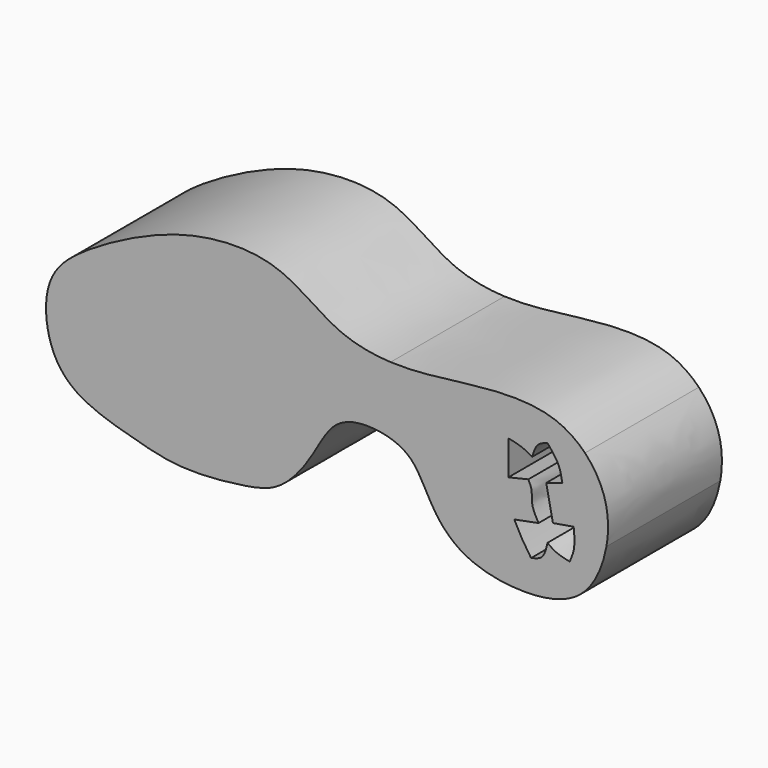
from build123d import *

# Parameters (mm, degrees)
F1_DEPTH = 25.4
F2_DEPTH = 25.4


with BuildPart() as f1:
    # F0 (on Front) → F1 (new body)
    with BuildSketch(Plane.XZ):
        with BuildLine():
            add(Edge.make_bspline(
                [(-21.1319793016, -24.2659058422), (-24.3570358762, -24.7777855387), (-32.4706943336, -25.5758135008), (-40.9489534266, -23.3495393333), (-52.7622456005, -19.9686759054), (-57.0062077936, -11.8062228805), (-56.7664948087, -2.1847660978), (-49.596358892, 3.8597955533), (-38.0318664258, 10.0360858029), (-26.8067426618, 13.2588182995), (-14.2837155857, 12.7668128887), (-5.5136649016, 5.0242601561), (1.6349428916, 3.7444633988), (4.8108015762, 3.6020368793)],
                knots=[0, 0, 0, 0, 0.0422629249, 0.0810008271, 0.1243072224, 0.1615307135, 0.1990169046, 0.2368101691, 0.2829193813, 0.3267313241, 0.3704405115, 0.4144458893, 0.4497350125, 0.4497350125, 0.4497350125, 0.4497350125], degree=3))
            add(Edge.make_bspline(
                [(9.6674837804, -12.0007963851), (9.2642394359, -11.3924981477), (7.4703470646, -9.1092335188), (2.2354055131, -7.3488645606), (-5.4862582953, -8.1355350058), (-9.0763541657, -16.1318268601), (-14.6339584292, -22.9126769642), (-18.6568995605, -23.8730621703), (-21.1319793016, -24.2659058422)],
                knots=[0.8170978874, 0.8170978874, 0.8170978874, 0.8170978874, 0.8277735352, 0.8605864368, 0.8939601806, 0.9306380753, 0.9675651863, 1, 1, 1, 1], degree=3))
            add(Edge.make_bspline(
                [(10.8868069947, -5.8429688215), (10.4803659233, -7.8955780094), (10.0739248519, -9.9481871972), (9.6674837804, -12.0007963851)],
                knots=[0, 0, 0, 0, 6.2773871478, 6.2773871478, 6.2773871478, 6.2773871478], degree=3))
            add(Edge.make_bspline(
                [(-28.3964090049, 3.0346869025), (-15.3020036717, 0.0754683279), (-2.2075983385, -2.8837502468), (10.8868069947, -5.8429688215)],
                knots=[0, 0, 0, 0, 40.2738603864, 40.2738603864, 40.2738603864, 40.2738603864], degree=3))
            add(Edge.make_bspline(
                [(-24.9266810715, -12.0007963851), (-26.0832570493, -6.9889686226), (-27.2398330271, -1.97714086), (-28.3964090049, 3.0346869025)],
                knots=[0, 0, 0, 0, 15.43064385, 15.43064385, 15.43064385, 15.43064385], degree=3))
            add(Edge.make_bspline(
                [(-53.0460588634, -10.1503068581), (-43.6729329328, -10.7671367005), (-34.2998070021, -11.3839665428), (-24.9266810715, -12.0007963851)],
                knots=[0, 0, 0, 0, 28.1802008313, 28.1802008313, 28.1802008313, 28.1802008313], degree=3))
            add(Edge.make_bspline(
                [(-53.0460588634, -10.1503068581), (-53.0460588634, -9.6892326449), (-53.0460588634, -9.2281584317), (-53.0460588634, -8.7670842186)],
                knots=[0, 0, 0, 0, 1.3832226396, 1.3832226396, 1.3832226396, 1.3832226396], degree=3))
            add(Edge.make_bspline(
                [(-53.0460588634, -8.7670842186), (-44.5210884015, -9.3438057229), (-35.9961179396, -9.9205272272), (-27.4711474776, -10.4972487316)],
                knots=[0, 0, 0, 0, 25.6333681289, 25.6333681289, 25.6333681289, 25.6333681289], degree=3))
            add(Edge.make_bspline(
                [(-27.4711474776, -10.4972487316), (-28.6855523785, -5.0998955655), (-29.8999572794, 0.2974576006), (-31.1143621802, 5.6948107667)],
                knots=[0, 0, 0, 0, 16.5968612745, 16.5968612745, 16.5968612745, 16.5968612745], degree=3))
            add(Edge.make_bspline(
                [(-31.1143621802, 5.6948107667), (-16.2555451194, 2.1861237474), (-1.3967280587, -1.322563272), (13.4620890021, -4.8312502913)],
                knots=[0, 0, 0, 0, 45.8023794296, 45.8023794296, 45.8023794296, 45.8023794296], degree=3))
            add(Edge.make_bspline(
                [(13.4620890021, -4.8312502913), (12.6036616663, -7.92181758), (11.7452343305, -11.0123848687), (10.8868069947, -14.1029521574)],
                knots=[0, 0, 0, 0, 9.6227092293, 9.6227092293, 9.6227092293, 9.6227092293], degree=3))
            add(Edge.make_bspline(
                [(21.9072404805, -23.8330229858), (20.4291064105, -23.4344663519), (16.0970680715, -21.7528409011), (12.9126333784, -17.9807425734), (11.2851478396, -14.8480385819), (10.8868069947, -14.1029521574)],
                knots=[0.7402515966, 0.7402515966, 0.7402515966, 0.7402515966, 0.7573729221, 0.7938080917, 0.8055602001, 0.8055602001, 0.8055602001, 0.8055602001], degree=3))
            add(Edge.make_bspline(
                [(21.9072404805, -23.8330229858), (20.4924234742, -20.5493035752), (19.0795214781, -17.2584819323), (17.6647044718, -13.9747625217)],
                knots=[0, 0, 0, 0, 10.7324000654, 10.7324000654, 10.7324000654, 10.7324000654], degree=3))
            add(Edge.make_bspline(
                [(17.6647044718, -13.9747625217), (18.9077388495, -11.2815212148), (20.1507732272, -8.5882799079), (21.3938076049, -5.895038601)],
                knots=[0, 0, 0, 0, 8.8987723205, 8.8987723205, 8.8987723205, 8.8987723205], degree=3))
            add(Edge.make_bspline(
                [(21.3938076049, -5.895038601), (15.8679470904, -2.6890279748), (10.3366620907, 0.3960262531), (4.8108015762, 3.6020368793)],
                knots=[0, 0, 0, 0, 19.1099589646, 19.1099589646, 19.1099589646, 19.1099589646], degree=3))
        make_face()
        with BuildLine():
            add(Edge.make_bspline(
                [(4.8108015762, 3.6020368793), (5.5402716391, 3.5693226145), (10.3213645362, 3.5025781258), (19.2069255067, 4.9316257915), (32.6506598726, 5.8406302067), (38.1089513561, 2.0494417269), (39.4985303285, 0.6140241302)],
                knots=[0.4497350125, 0.4497350125, 0.4497350125, 0.4497350125, 0.4578406499, 0.5028823113, 0.5521438618, 0.5748187455, 0.5748187455, 0.5748187455, 0.5748187455], degree=3))
            add(Edge.make_bspline(
                [(21.3938076049, -5.895038601), (15.8679470904, -2.6890279748), (10.3366620907, 0.3960262531), (4.8108015762, 3.6020368793)],
                knots=[0, 0, 0, 0, 19.1099589646, 19.1099589646, 19.1099589646, 19.1099589646], degree=3))
            add(Edge.make_bspline(
                [(17.6647044718, -13.9747625217), (18.9077388495, -11.2815212148), (20.1507732272, -8.5882799079), (21.3938076049, -5.895038601)],
                knots=[0, 0, 0, 0, 8.8987723205, 8.8987723205, 8.8987723205, 8.8987723205], degree=3))
            add(Edge.make_bspline(
                [(21.9072404805, -23.8330229858), (20.4924234742, -20.5493035752), (19.0795214781, -17.2584819323), (17.6647044718, -13.9747625217)],
                knots=[0, 0, 0, 0, 10.7324000654, 10.7324000654, 10.7324000654, 10.7324000654], degree=3))
            add(Edge.make_bspline(
                [(43.3249436319, -12.8394505009), (42.7319681607, -16.2017480064), (39.7925814661, -23.155403882), (30.4469371076, -25.1687969732), (24.1430179138, -24.4358667644), (21.9072404805, -23.8330229858)],
                knots=[0.6332695043, 0.6332695043, 0.6332695043, 0.6332695043, 0.6735927279, 0.7143544376, 0.7402515966, 0.7402515966, 0.7402515966, 0.7402515966], degree=3))
            add(Edge.make_bspline(
                [(39.4985303285, 0.6140241302), (40.6835603149, -0.6100969373), (43.5381276946, -4.8387743611), (43.9001318877, -9.5780103037), (43.3249436319, -12.8394505009)],
                knots=[0.5748187455, 0.5748187455, 0.5748187455, 0.5748187455, 0.5941558381, 0.6332695043, 0.6332695043, 0.6332695043, 0.6332695043], degree=3))
        make_face()
        with BuildLine():
            add(Edge.make_bspline(
                [(29.8773124814, -19.02865991), (30.6132948701, -18.858887015), (32.1780260069, -18.4979423251), (32.5887387391, -16.6565554554), (32.8062698245, -15.6812779605)],
                knots=[0, 0, 0, 0, 0.4703570929, 1, 1, 1, 1], degree=3))
            add(Edge.make_bspline(
                [(26.8845334649, -13.9401629567), (27.3329629385, -14.8248683362), (28.227634179, -16.5899629743), (29.3283168669, -18.2170871803), (29.8773124814, -19.02865991)],
                knots=[0, 0, 0, 0, 0.5012226316, 1, 1, 1, 1], degree=3))
            add(Edge.make_bspline(
                [(31.2071647495, -13.1017267704), (29.7662876546, -13.3812054992), (28.3254105598, -13.6606842279), (26.8845334649, -13.9401629567)],
                knots=[0, 0, 0, 0, 4.4031938932, 4.4031938932, 4.4031938932, 4.4031938932], degree=3))
            add(Edge.make_bspline(
                [(29.3891523033, -6.8246647716), (29.6312408565, -7.2969894135), (30.1555270731, -8.3198932074), (29.8208710369, -10.6165544248), (30.72565527, -12.238537367), (31.2071647495, -13.1017267704)],
                knots=[0, 0, 0, 0, 0.2863905933, 0.6202302367, 1, 1, 1, 1], degree=3))
            add(Edge.make_bspline(
                [(25.8325599134, -7.6615102589), (27.01809071, -7.3825617631), (28.2036215067, -7.1036132673), (29.3891523033, -6.8246647716)],
                knots=[0, 0, 0, 0, 3.653718626, 3.653718626, 3.653718626, 3.653718626], degree=3))
            add(Edge.make_bspline(
                [(25.8325599134, -1.5246442053), (25.8325599134, -3.5702662232), (25.8325599134, -5.6158882411), (25.8325599134, -7.6615102589)],
                knots=[0, 0, 0, 0, 6.1368660536, 6.1368660536, 6.1368660536, 6.1368660536], degree=3))
            add(Edge.make_bspline(
                [(30.0865229219, -3.0588605441), (29.42752174, -2.6982102219), (28.1015622789, -1.972554912), (26.5919138408, -1.6745438967), (25.8325599134, -1.5246442053)],
                knots=[0, 0, 0, 0, 0.4969994945, 1, 1, 1, 1], degree=3))
            add(Edge.make_bspline(
                [(32.8062698245, 0), (32.1572042703, -0.2142041), (30.7942122706, -0.6640176399), (30.3297862732, -2.2356497502), (30.0865229219, -3.0588605441)],
                knots=[0, 0, 0, 0, 0.4762064299, 1, 1, 1, 1], degree=3))
            add(Edge.make_bspline(
                [(35.4562811553, -5.4299226031), (35.3071278836, -4.5344958964), (34.9919023066, -2.642070763), (33.5604244511, -0.9116491021), (32.8062698245, 0)],
                knots=[0, 0, 0, 0, 0.4731636094, 1, 1, 1, 1], degree=3))
            add(Edge.make_bspline(
                [(32.5887387391, -6.3365050592), (33.5445862112, -6.0343109071), (34.5004336832, -5.7321167551), (35.4562811553, -5.4299226031)],
                knots=[0, 0, 0, 0, 3.0074393192, 3.0074393192, 3.0074393192, 3.0074393192], degree=3))
            add(Edge.make_bspline(
                [(33.7825901806, -12.264159508), (33.3846397001, -10.2882746918), (32.9866892196, -8.3123898755), (32.5887387391, -6.3365050592)],
                knots=[0, 0, 0, 0, 6.04668244, 6.04668244, 6.04668244, 6.04668244], degree=3))
            add(Edge.make_bspline(
                [(37.478659302, -11.6365253925), (36.2466362615, -11.8457367644), (35.0146132211, -12.0549481362), (33.7825901806, -12.264159508)],
                knots=[0, 0, 0, 0, 3.7489800657, 3.7489800657, 3.7489800657, 3.7489800657], degree=3))
            add(Edge.make_bspline(
                [(36.7812849581, -17.3549689353), (37.1008468874, -16.604512811), (37.7908123304, -14.9842046807), (37.5876992525, -12.8059222928), (37.478659302, -11.6365253925)],
                knots=[0, 0, 0, 0, 0.463156427, 1, 1, 1, 1], degree=3))
            add(Edge.make_bspline(
                [(32.8062698245, -15.6812779605), (33.2770934504, -16.0357254501), (34.3043032576, -16.8090340043), (35.9110135004, -17.1631582375), (36.7812849581, -17.3549689353)],
                knots=[0, 0, 0, 0, 0.4583519576, 1, 1, 1, 1], degree=3))
        make_face(mode=Mode.SUBTRACT)
        with BuildLine():
            add(Edge.make_bspline(
                [(10.8868069947, -5.8429688215), (10.4803659233, -7.8955780094), (10.0739248519, -9.9481871972), (9.6674837804, -12.0007963851)],
                knots=[0, 0, 0, 0, 6.2773871478, 6.2773871478, 6.2773871478, 6.2773871478], degree=3))
            add(Edge.make_bspline(
                [(10.8868069947, -14.1029521574), (10.4957340064, -13.3714600738), (10.1032893871, -12.658213621), (9.6674837804, -12.0007963851)],
                knots=[0.8055602001, 0.8055602001, 0.8055602001, 0.8055602001, 0.8170978874, 0.8170978874, 0.8170978874, 0.8170978874], degree=3))
            add(Edge.make_bspline(
                [(13.4620890021, -4.8312502913), (12.6036616663, -7.92181758), (11.7452343305, -11.0123848687), (10.8868069947, -14.1029521574)],
                knots=[0, 0, 0, 0, 9.6227092293, 9.6227092293, 9.6227092293, 9.6227092293], degree=3))
            add(Edge.make_bspline(
                [(-31.1143621802, 5.6948107667), (-16.2555451194, 2.1861237474), (-1.3967280587, -1.322563272), (13.4620890021, -4.8312502913)],
                knots=[0, 0, 0, 0, 45.8023794296, 45.8023794296, 45.8023794296, 45.8023794296], degree=3))
            add(Edge.make_bspline(
                [(-27.4711474776, -10.4972487316), (-28.6855523785, -5.0998955655), (-29.8999572794, 0.2974576006), (-31.1143621802, 5.6948107667)],
                knots=[0, 0, 0, 0, 16.5968612745, 16.5968612745, 16.5968612745, 16.5968612745], degree=3))
            add(Edge.make_bspline(
                [(-53.0460588634, -8.7670842186), (-44.5210884015, -9.3438057229), (-35.9961179396, -9.9205272272), (-27.4711474776, -10.4972487316)],
                knots=[0, 0, 0, 0, 25.6333681289, 25.6333681289, 25.6333681289, 25.6333681289], degree=3))
            add(Edge.make_bspline(
                [(-53.0460588634, -10.1503068581), (-53.0460588634, -9.6892326449), (-53.0460588634, -9.2281584317), (-53.0460588634, -8.7670842186)],
                knots=[0, 0, 0, 0, 1.3832226396, 1.3832226396, 1.3832226396, 1.3832226396], degree=3))
            add(Edge.make_bspline(
                [(-53.0460588634, -10.1503068581), (-43.6729329328, -10.7671367005), (-34.2998070021, -11.3839665428), (-24.9266810715, -12.0007963851)],
                knots=[0, 0, 0, 0, 28.1802008313, 28.1802008313, 28.1802008313, 28.1802008313], degree=3))
            add(Edge.make_bspline(
                [(-24.9266810715, -12.0007963851), (-26.0832570493, -6.9889686226), (-27.2398330271, -1.97714086), (-28.3964090049, 3.0346869025)],
                knots=[0, 0, 0, 0, 15.43064385, 15.43064385, 15.43064385, 15.43064385], degree=3))
            add(Edge.make_bspline(
                [(-28.3964090049, 3.0346869025), (-15.3020036717, 0.0754683279), (-2.2075983385, -2.8837502468), (10.8868069947, -5.8429688215)],
                knots=[0, 0, 0, 0, 40.2738603864, 40.2738603864, 40.2738603864, 40.2738603864], degree=3))
        make_face()
    extrude(amount=F1_DEPTH)

    # F0 (on Front) → F2 (join)
    with BuildSketch(Plane.XZ):
        with BuildLine():
            add(Edge.make_bspline(
                [(-21.1319793016, -24.2659058422), (-24.3570358762, -24.7777855387), (-32.4706943336, -25.5758135008), (-40.9489534266, -23.3495393333), (-52.7622456005, -19.9686759054), (-57.0062077936, -11.8062228805), (-56.7664948087, -2.1847660978), (-49.596358892, 3.8597955533), (-38.0318664258, 10.0360858029), (-26.8067426618, 13.2588182995), (-14.2837155857, 12.7668128887), (-5.5136649016, 5.0242601561), (1.6349428916, 3.7444633988), (4.8108015762, 3.6020368793)],
                knots=[0, 0, 0, 0, 0.0422629249, 0.0810008271, 0.1243072224, 0.1615307135, 0.1990169046, 0.2368101691, 0.2829193813, 0.3267313241, 0.3704405115, 0.4144458893, 0.4497350125, 0.4497350125, 0.4497350125, 0.4497350125], degree=3))
            add(Edge.make_bspline(
                [(9.6674837804, -12.0007963851), (9.2642394359, -11.3924981477), (7.4703470646, -9.1092335188), (2.2354055131, -7.3488645606), (-5.4862582953, -8.1355350058), (-9.0763541657, -16.1318268601), (-14.6339584292, -22.9126769642), (-18.6568995605, -23.8730621703), (-21.1319793016, -24.2659058422)],
                knots=[0.8170978874, 0.8170978874, 0.8170978874, 0.8170978874, 0.8277735352, 0.8605864368, 0.8939601806, 0.9306380753, 0.9675651863, 1, 1, 1, 1], degree=3))
            add(Edge.make_bspline(
                [(10.8868069947, -5.8429688215), (10.4803659233, -7.8955780094), (10.0739248519, -9.9481871972), (9.6674837804, -12.0007963851)],
                knots=[0, 0, 0, 0, 6.2773871478, 6.2773871478, 6.2773871478, 6.2773871478], degree=3))
            add(Edge.make_bspline(
                [(-28.3964090049, 3.0346869025), (-15.3020036717, 0.0754683279), (-2.2075983385, -2.8837502468), (10.8868069947, -5.8429688215)],
                knots=[0, 0, 0, 0, 40.2738603864, 40.2738603864, 40.2738603864, 40.2738603864], degree=3))
            add(Edge.make_bspline(
                [(-24.9266810715, -12.0007963851), (-26.0832570493, -6.9889686226), (-27.2398330271, -1.97714086), (-28.3964090049, 3.0346869025)],
                knots=[0, 0, 0, 0, 15.43064385, 15.43064385, 15.43064385, 15.43064385], degree=3))
            add(Edge.make_bspline(
                [(-53.0460588634, -10.1503068581), (-43.6729329328, -10.7671367005), (-34.2998070021, -11.3839665428), (-24.9266810715, -12.0007963851)],
                knots=[0, 0, 0, 0, 28.1802008313, 28.1802008313, 28.1802008313, 28.1802008313], degree=3))
            add(Edge.make_bspline(
                [(-53.0460588634, -10.1503068581), (-53.0460588634, -9.6892326449), (-53.0460588634, -9.2281584317), (-53.0460588634, -8.7670842186)],
                knots=[0, 0, 0, 0, 1.3832226396, 1.3832226396, 1.3832226396, 1.3832226396], degree=3))
            add(Edge.make_bspline(
                [(-53.0460588634, -8.7670842186), (-44.5210884015, -9.3438057229), (-35.9961179396, -9.9205272272), (-27.4711474776, -10.4972487316)],
                knots=[0, 0, 0, 0, 25.6333681289, 25.6333681289, 25.6333681289, 25.6333681289], degree=3))
            add(Edge.make_bspline(
                [(-27.4711474776, -10.4972487316), (-28.6855523785, -5.0998955655), (-29.8999572794, 0.2974576006), (-31.1143621802, 5.6948107667)],
                knots=[0, 0, 0, 0, 16.5968612745, 16.5968612745, 16.5968612745, 16.5968612745], degree=3))
            add(Edge.make_bspline(
                [(-31.1143621802, 5.6948107667), (-16.2555451194, 2.1861237474), (-1.3967280587, -1.322563272), (13.4620890021, -4.8312502913)],
                knots=[0, 0, 0, 0, 45.8023794296, 45.8023794296, 45.8023794296, 45.8023794296], degree=3))
            add(Edge.make_bspline(
                [(13.4620890021, -4.8312502913), (12.6036616663, -7.92181758), (11.7452343305, -11.0123848687), (10.8868069947, -14.1029521574)],
                knots=[0, 0, 0, 0, 9.6227092293, 9.6227092293, 9.6227092293, 9.6227092293], degree=3))
            add(Edge.make_bspline(
                [(21.9072404805, -23.8330229858), (20.4291064105, -23.4344663519), (16.0970680715, -21.7528409011), (12.9126333784, -17.9807425734), (11.2851478396, -14.8480385819), (10.8868069947, -14.1029521574)],
                knots=[0.7402515966, 0.7402515966, 0.7402515966, 0.7402515966, 0.7573729221, 0.7938080917, 0.8055602001, 0.8055602001, 0.8055602001, 0.8055602001], degree=3))
            add(Edge.make_bspline(
                [(21.9072404805, -23.8330229858), (20.4924234742, -20.5493035752), (19.0795214781, -17.2584819323), (17.6647044718, -13.9747625217)],
                knots=[0, 0, 0, 0, 10.7324000654, 10.7324000654, 10.7324000654, 10.7324000654], degree=3))
            add(Edge.make_bspline(
                [(17.6647044718, -13.9747625217), (18.9077388495, -11.2815212148), (20.1507732272, -8.5882799079), (21.3938076049, -5.895038601)],
                knots=[0, 0, 0, 0, 8.8987723205, 8.8987723205, 8.8987723205, 8.8987723205], degree=3))
            add(Edge.make_bspline(
                [(21.3938076049, -5.895038601), (15.8679470904, -2.6890279748), (10.3366620907, 0.3960262531), (4.8108015762, 3.6020368793)],
                knots=[0, 0, 0, 0, 19.1099589646, 19.1099589646, 19.1099589646, 19.1099589646], degree=3))
        make_face()
        with BuildLine():
            add(Edge.make_bspline(
                [(4.8108015762, 3.6020368793), (5.5402716391, 3.5693226145), (10.3213645362, 3.5025781258), (19.2069255067, 4.9316257915), (32.6506598726, 5.8406302067), (38.1089513561, 2.0494417269), (39.4985303285, 0.6140241302)],
                knots=[0.4497350125, 0.4497350125, 0.4497350125, 0.4497350125, 0.4578406499, 0.5028823113, 0.5521438618, 0.5748187455, 0.5748187455, 0.5748187455, 0.5748187455], degree=3))
            add(Edge.make_bspline(
                [(21.3938076049, -5.895038601), (15.8679470904, -2.6890279748), (10.3366620907, 0.3960262531), (4.8108015762, 3.6020368793)],
                knots=[0, 0, 0, 0, 19.1099589646, 19.1099589646, 19.1099589646, 19.1099589646], degree=3))
            add(Edge.make_bspline(
                [(17.6647044718, -13.9747625217), (18.9077388495, -11.2815212148), (20.1507732272, -8.5882799079), (21.3938076049, -5.895038601)],
                knots=[0, 0, 0, 0, 8.8987723205, 8.8987723205, 8.8987723205, 8.8987723205], degree=3))
            add(Edge.make_bspline(
                [(21.9072404805, -23.8330229858), (20.4924234742, -20.5493035752), (19.0795214781, -17.2584819323), (17.6647044718, -13.9747625217)],
                knots=[0, 0, 0, 0, 10.7324000654, 10.7324000654, 10.7324000654, 10.7324000654], degree=3))
            add(Edge.make_bspline(
                [(43.3249436319, -12.8394505009), (42.7319681607, -16.2017480064), (39.7925814661, -23.155403882), (30.4469371076, -25.1687969732), (24.1430179138, -24.4358667644), (21.9072404805, -23.8330229858)],
                knots=[0.6332695043, 0.6332695043, 0.6332695043, 0.6332695043, 0.6735927279, 0.7143544376, 0.7402515966, 0.7402515966, 0.7402515966, 0.7402515966], degree=3))
            add(Edge.make_bspline(
                [(39.4985303285, 0.6140241302), (40.6835603149, -0.6100969373), (43.5381276946, -4.8387743611), (43.9001318877, -9.5780103037), (43.3249436319, -12.8394505009)],
                knots=[0.5748187455, 0.5748187455, 0.5748187455, 0.5748187455, 0.5941558381, 0.6332695043, 0.6332695043, 0.6332695043, 0.6332695043], degree=3))
        make_face()
        with BuildLine():
            add(Edge.make_bspline(
                [(29.8773124814, -19.02865991), (30.6132948701, -18.858887015), (32.1780260069, -18.4979423251), (32.5887387391, -16.6565554554), (32.8062698245, -15.6812779605)],
                knots=[0, 0, 0, 0, 0.4703570929, 1, 1, 1, 1], degree=3))
            add(Edge.make_bspline(
                [(26.8845334649, -13.9401629567), (27.3329629385, -14.8248683362), (28.227634179, -16.5899629743), (29.3283168669, -18.2170871803), (29.8773124814, -19.02865991)],
                knots=[0, 0, 0, 0, 0.5012226316, 1, 1, 1, 1], degree=3))
            add(Edge.make_bspline(
                [(31.2071647495, -13.1017267704), (29.7662876546, -13.3812054992), (28.3254105598, -13.6606842279), (26.8845334649, -13.9401629567)],
                knots=[0, 0, 0, 0, 4.4031938932, 4.4031938932, 4.4031938932, 4.4031938932], degree=3))
            add(Edge.make_bspline(
                [(29.3891523033, -6.8246647716), (29.6312408565, -7.2969894135), (30.1555270731, -8.3198932074), (29.8208710369, -10.6165544248), (30.72565527, -12.238537367), (31.2071647495, -13.1017267704)],
                knots=[0, 0, 0, 0, 0.2863905933, 0.6202302367, 1, 1, 1, 1], degree=3))
            add(Edge.make_bspline(
                [(25.8325599134, -7.6615102589), (27.01809071, -7.3825617631), (28.2036215067, -7.1036132673), (29.3891523033, -6.8246647716)],
                knots=[0, 0, 0, 0, 3.653718626, 3.653718626, 3.653718626, 3.653718626], degree=3))
            add(Edge.make_bspline(
                [(25.8325599134, -1.5246442053), (25.8325599134, -3.5702662232), (25.8325599134, -5.6158882411), (25.8325599134, -7.6615102589)],
                knots=[0, 0, 0, 0, 6.1368660536, 6.1368660536, 6.1368660536, 6.1368660536], degree=3))
            add(Edge.make_bspline(
                [(30.0865229219, -3.0588605441), (29.42752174, -2.6982102219), (28.1015622789, -1.972554912), (26.5919138408, -1.6745438967), (25.8325599134, -1.5246442053)],
                knots=[0, 0, 0, 0, 0.4969994945, 1, 1, 1, 1], degree=3))
            add(Edge.make_bspline(
                [(32.8062698245, 0), (32.1572042703, -0.2142041), (30.7942122706, -0.6640176399), (30.3297862732, -2.2356497502), (30.0865229219, -3.0588605441)],
                knots=[0, 0, 0, 0, 0.4762064299, 1, 1, 1, 1], degree=3))
            add(Edge.make_bspline(
                [(35.4562811553, -5.4299226031), (35.3071278836, -4.5344958964), (34.9919023066, -2.642070763), (33.5604244511, -0.9116491021), (32.8062698245, 0)],
                knots=[0, 0, 0, 0, 0.4731636094, 1, 1, 1, 1], degree=3))
            add(Edge.make_bspline(
                [(32.5887387391, -6.3365050592), (33.5445862112, -6.0343109071), (34.5004336832, -5.7321167551), (35.4562811553, -5.4299226031)],
                knots=[0, 0, 0, 0, 3.0074393192, 3.0074393192, 3.0074393192, 3.0074393192], degree=3))
            add(Edge.make_bspline(
                [(33.7825901806, -12.264159508), (33.3846397001, -10.2882746918), (32.9866892196, -8.3123898755), (32.5887387391, -6.3365050592)],
                knots=[0, 0, 0, 0, 6.04668244, 6.04668244, 6.04668244, 6.04668244], degree=3))
            add(Edge.make_bspline(
                [(37.478659302, -11.6365253925), (36.2466362615, -11.8457367644), (35.0146132211, -12.0549481362), (33.7825901806, -12.264159508)],
                knots=[0, 0, 0, 0, 3.7489800657, 3.7489800657, 3.7489800657, 3.7489800657], degree=3))
            add(Edge.make_bspline(
                [(36.7812849581, -17.3549689353), (37.1008468874, -16.604512811), (37.7908123304, -14.9842046807), (37.5876992525, -12.8059222928), (37.478659302, -11.6365253925)],
                knots=[0, 0, 0, 0, 0.463156427, 1, 1, 1, 1], degree=3))
            add(Edge.make_bspline(
                [(32.8062698245, -15.6812779605), (33.2770934504, -16.0357254501), (34.3043032576, -16.8090340043), (35.9110135004, -17.1631582375), (36.7812849581, -17.3549689353)],
                knots=[0, 0, 0, 0, 0.4583519576, 1, 1, 1, 1], degree=3))
        make_face(mode=Mode.SUBTRACT)
        with BuildLine():
            add(Edge.make_bspline(
                [(10.8868069947, -5.8429688215), (10.4803659233, -7.8955780094), (10.0739248519, -9.9481871972), (9.6674837804, -12.0007963851)],
                knots=[0, 0, 0, 0, 6.2773871478, 6.2773871478, 6.2773871478, 6.2773871478], degree=3))
            add(Edge.make_bspline(
                [(10.8868069947, -14.1029521574), (10.4957340064, -13.3714600738), (10.1032893871, -12.658213621), (9.6674837804, -12.0007963851)],
                knots=[0.8055602001, 0.8055602001, 0.8055602001, 0.8055602001, 0.8170978874, 0.8170978874, 0.8170978874, 0.8170978874], degree=3))
            add(Edge.make_bspline(
                [(13.4620890021, -4.8312502913), (12.6036616663, -7.92181758), (11.7452343305, -11.0123848687), (10.8868069947, -14.1029521574)],
                knots=[0, 0, 0, 0, 9.6227092293, 9.6227092293, 9.6227092293, 9.6227092293], degree=3))
            add(Edge.make_bspline(
                [(-31.1143621802, 5.6948107667), (-16.2555451194, 2.1861237474), (-1.3967280587, -1.322563272), (13.4620890021, -4.8312502913)],
                knots=[0, 0, 0, 0, 45.8023794296, 45.8023794296, 45.8023794296, 45.8023794296], degree=3))
            add(Edge.make_bspline(
                [(-27.4711474776, -10.4972487316), (-28.6855523785, -5.0998955655), (-29.8999572794, 0.2974576006), (-31.1143621802, 5.6948107667)],
                knots=[0, 0, 0, 0, 16.5968612745, 16.5968612745, 16.5968612745, 16.5968612745], degree=3))
            add(Edge.make_bspline(
                [(-53.0460588634, -8.7670842186), (-44.5210884015, -9.3438057229), (-35.9961179396, -9.9205272272), (-27.4711474776, -10.4972487316)],
                knots=[0, 0, 0, 0, 25.6333681289, 25.6333681289, 25.6333681289, 25.6333681289], degree=3))
            add(Edge.make_bspline(
                [(-53.0460588634, -10.1503068581), (-53.0460588634, -9.6892326449), (-53.0460588634, -9.2281584317), (-53.0460588634, -8.7670842186)],
                knots=[0, 0, 0, 0, 1.3832226396, 1.3832226396, 1.3832226396, 1.3832226396], degree=3))
            add(Edge.make_bspline(
                [(-53.0460588634, -10.1503068581), (-43.6729329328, -10.7671367005), (-34.2998070021, -11.3839665428), (-24.9266810715, -12.0007963851)],
                knots=[0, 0, 0, 0, 28.1802008313, 28.1802008313, 28.1802008313, 28.1802008313], degree=3))
            add(Edge.make_bspline(
                [(-24.9266810715, -12.0007963851), (-26.0832570493, -6.9889686226), (-27.2398330271, -1.97714086), (-28.3964090049, 3.0346869025)],
                knots=[0, 0, 0, 0, 15.43064385, 15.43064385, 15.43064385, 15.43064385], degree=3))
            add(Edge.make_bspline(
                [(-28.3964090049, 3.0346869025), (-15.3020036717, 0.0754683279), (-2.2075983385, -2.8837502468), (10.8868069947, -5.8429688215)],
                knots=[0, 0, 0, 0, 40.2738603864, 40.2738603864, 40.2738603864, 40.2738603864], degree=3))
        make_face()
    extrude(amount=F2_DEPTH)


solid = f1.part
